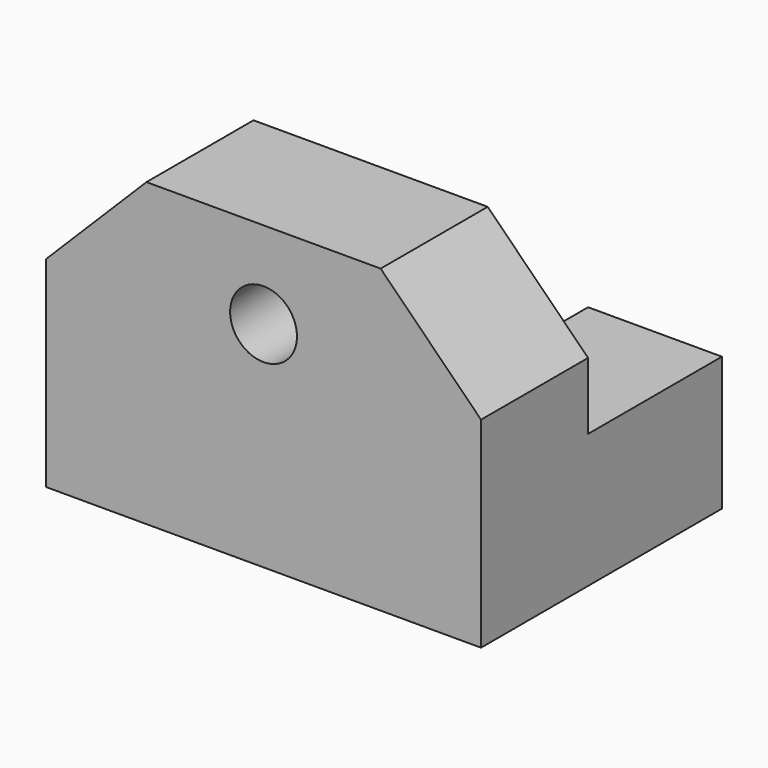
from build123d import *

# Parameters (mm, degrees)
F1_DEPTH = 32.5
F2_W     = 25
F2_H     = 10
F3_DEPTH = 20.001
F4_SIZE  = 15
F5_R     = 5
F6_DEPTH = 20.001


with BuildPart() as f1:
    # F0 (on Right) → F1 (new body, symmetric)
    with BuildSketch(Plane.YZ):
        Polygon((0, 45), (0, 0), (45, 0), (45, 20), (20, 20), (20, 45), align=None)
    extrude(amount=F1_DEPTH, both=True)

    # F2 (on face) → F3 (cut, through all)
    with BuildSketch(Plane.XY.offset(20)):
        with Locations((0, 40)):
            Rectangle(F2_W, F2_H)
    extrude(amount=-F3_DEPTH, mode=Mode.SUBTRACT)

    # F4
    f4_edges = [f1.edges().sort_by_distance(p)[0] for p in [
        (32.5, 10, 45),
        (-32.5, 10, 45),
    ]]
    chamfer(f4_edges, length=F4_SIZE)

    # F5 (on face) → F6 (cut, through all)
    with BuildSketch(Plane(origin=(0, 20, 0), x_dir=(-1, 0, 0), z_dir=(0, 1, 0))):
        with Locations((0, 32)):
            Circle(F5_R)
    extrude(amount=-F6_DEPTH, mode=Mode.SUBTRACT)


solid = f1.part
